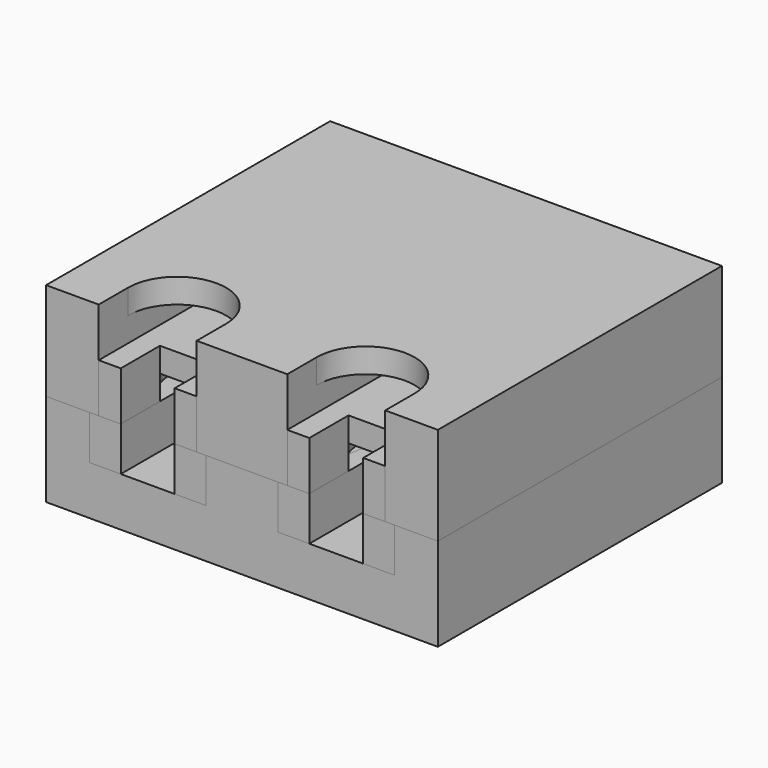
from build123d import *

# Parameters (mm, degrees)
SKETCH_W             = 16
SKETCH_H             = 14.5
PAD_DEPTH            = 3.8
POCKET_DEPTH         = 1.8
SKETCH002_W          = 16
SKETCH002_H          = 14.5
PAD001_DEPTH         = 2
PAD002_DEPTH         = 1.8
FILLET_R             = 0.5
SKETCH004_W          = 2.2
SKETCH004_H          = 2
POCKET001_DEPTH      = 100
POCKET001_DEPTH_BACK = -100
SKETCH005_R          = 2
POCKET002_DEPTH      = 1
SKETCH006_W          = 16
SKETCH006_H          = 14.5
PAD003_DEPTH         = 3.8
POCKET003_DEPTH      = 1.8
SKETCH008_W          = 16
SKETCH008_H          = 14.5
PAD004_DEPTH         = 4
PAD005_DEPTH         = 1.8
FILLET001_R          = 0.5
POCKET004_DEPTH      = 100
POCKET004_DEPTH_BACK = -100
POCKET005_DEPTH      = 3


with BuildPart() as bottom_small_gauge:
    # Sketch → Pad (new body)
    with BuildSketch(Plane.XY):
        with Locations((0, 7.25)):
            Rectangle(SKETCH_W, SKETCH_H)
    extrude(amount=-PAD_DEPTH)

    # Sketch001 → Pocket (cut)
    with BuildSketch(Plane.XY):
        Polygon((-5.875, 14.5), (-5.875, 9), (-4.95, 5.75), (-4.95, 0), (-2.75, 0), (-2.75, 5.75), (-1.825, 9), (-1.825, 14.5), align=None)
        Polygon((2.75, 0), (2.75, 5.75), (1.825, 9), (1.825, 14.5), (5.875, 14.5), (5.875, 9), (4.95, 5.75), (4.95, 0), align=None)
        with BuildLine():
            ThreePointArc((-0.75, 4), (0, 1.75), (0.75, 4))
            Line((0.75, 4), (0.75, 12))
            Line((0.75, 12), (-0.75, 12))
            Line((-0.75, 4), (-0.75, 12))
        make_face()
    extrude(amount=-POCKET_DEPTH, mode=Mode.SUBTRACT)


with BuildPart() as top_small_gauge:
    # Sketch002 → Pad001 (new body)
    with BuildSketch(Plane.XY):
        with Locations((0, 7.25)):
            Rectangle(SKETCH002_W, SKETCH002_H)
    extrude(amount=PAD001_DEPTH)

    # Sketch003 → Pad002 (join)
    with BuildSketch(Plane.XY):
        with BuildLine():
            ThreePointArc((-0.75, 4), (0, 1.75), (0.75, 4))
            Line((0.75, 4), (0.75, 12))
            Line((0.75, 12), (-0.75, 12))
            Line((-0.75, 4), (-0.75, 12))
        make_face()
    extrude(amount=-PAD002_DEPTH)

    # Fillet
    fillet_edges = [top_small_gauge.edges().sort_by_distance(p)[0] for p in [
        (0, 1.75, -1.8),
        (0.75, 8, -1.8),
        (0, 12, -1.8),
        (-0.75, 8, -1.8),
    ]]
    fillet(fillet_edges, radius=FILLET_R)

    # Sketch004 → Pocket001 (cut, two sides)
    with BuildSketch(Plane.XY) as pocket001_sk:
        with Locations((-3.85, 1)):
            Rectangle(SKETCH004_W, SKETCH004_H)
        with Locations((3.85, 1)):
            Rectangle(SKETCH004_W, SKETCH004_H)
    extrude(amount=-POCKET001_DEPTH, mode=Mode.SUBTRACT)
    extrude(pocket001_sk.sketch, amount=-POCKET001_DEPTH_BACK, mode=Mode.SUBTRACT)

    # Sketch005 → Pocket002 (cut)
    with BuildSketch(Plane.XY):
        with Locations((-3.85, 3.670329)):
            Circle(SKETCH005_R)
        with Locations((3.85, 3.670329)):
            Circle(SKETCH005_R)
    extrude(amount=POCKET002_DEPTH, mode=Mode.SUBTRACT)


with BuildPart() as bottom_large_gauge:
    # Sketch006 → Pad003 (new body)
    with BuildSketch(Plane.XY):
        with Locations((0, 7.25)):
            Rectangle(SKETCH006_W, SKETCH006_H)
    extrude(amount=-PAD003_DEPTH)

    # Sketch007 → Pocket003 (cut)
    with BuildSketch(Plane.XY):
        Polygon((-5.579626, 14.5), (-5.579626, 9), (-5.470217, 5.75), (-6.225, 0), (-1.475, 0), (-1.970217, 5.778145), (-1.529626, 9), (-1.529626, 14.5), align=None)
        Polygon((1.475, 0), (2.541261, 5.700464), (1.825132, 8.872471), (1.825132, 14.372471), (5.875132, 14.372471), (5.875132, 8.872471), (5.158883, 5.700491), (6.225, 0), align=None)
        with BuildLine():
            ThreePointArc((-0.75, 4), (0, 1.75), (0.75, 4))
            Line((0.75, 4), (0.75, 12))
            Line((0.75, 12), (-0.75, 12))
            Line((-0.75, 4), (-0.75, 12))
        make_face()
    extrude(amount=-POCKET003_DEPTH, mode=Mode.SUBTRACT)


with BuildPart() as top_large_gauge:
    # Sketch008 → Pad004 (new body)
    with BuildSketch(Plane.XY):
        with Locations((0, 7.25)):
            Rectangle(SKETCH008_W, SKETCH008_H)
    extrude(amount=PAD004_DEPTH)

    # Sketch009 → Pad005 (join)
    with BuildSketch(Plane.XY):
        with BuildLine():
            ThreePointArc((-0.75, 4), (0, 1.75), (0.75, 4))
            Line((0.75, 4), (0.75, 12))
            Line((0.75, 12), (-0.75, 12))
            Line((-0.75, 4), (-0.75, 12))
        make_face()
    extrude(amount=-PAD005_DEPTH)

    # Fillet001
    fillet001_edges = [top_large_gauge.edges().sort_by_distance(p)[0] for p in [
        (0, 1.75, -1.8),
        (0.75, 8, -1.8),
        (0, 12, -1.8),
        (-0.75, 8, -1.8),
    ]]
    fillet(fillet001_edges, radius=FILLET001_R)

    # Sketch010 → Pocket004 (cut, two sides)
    with BuildSketch(Plane.XY) as pocket004_sk:
        with BuildLine():
            ThreePointArc((-1.85, 1.5), (-3.85, 3.5), (-5.85, 1.5))
            Line((-5.85, 1.5), (-5.85, -3.281396))
            Line((-5.85, -3.281396), (-1.85, -3.281396))
            Line((-1.85, 1.5), (-1.85, -3.281396))
        make_face()
        with BuildLine():
            ThreePointArc((5.85, 1.5), (3.85, 3.5), (1.85, 1.5))
            Line((1.85, 1.5), (1.85, -3.281396))
            Line((1.85, -3.281396), (5.85, -3.281396))
            Line((5.85, 1.5), (5.85, -3.281396))
        make_face()
    extrude(amount=-POCKET004_DEPTH, mode=Mode.SUBTRACT)
    extrude(pocket004_sk.sketch, amount=-POCKET004_DEPTH_BACK, mode=Mode.SUBTRACT)

    # Sketch011 → Pocket005 (cut)
    with BuildSketch(Plane.XY):
        with BuildLine():
            ThreePointArc((-5.85, -0.720417), (-3.85, -2.720417), (-1.85, -0.720417))
            Line((-1.85, -0.720417), (-1.85, 8.017636))
            ThreePointArc((-1.85, 8.017636), (-3.85, 10.017636), (-5.85, 8.017636))
            Line((-5.85, -0.720417), (-5.85, 8.017636))
        make_face()
        with BuildLine():
            ThreePointArc((1.85, -0.720417), (3.85, -2.720417), (5.85, -0.720417))
            Line((5.85, -0.720417), (5.85, 8.017636))
            ThreePointArc((5.85, 8.017636), (3.85, 10.017636), (1.85, 8.017635))
            Line((1.85, -0.720417), (1.85, 8.017635))
        make_face()
    extrude(amount=POCKET005_DEPTH, mode=Mode.SUBTRACT)


solid = Compound([bottom_small_gauge.part, top_small_gauge.part, bottom_large_gauge.part, top_large_gauge.part])
